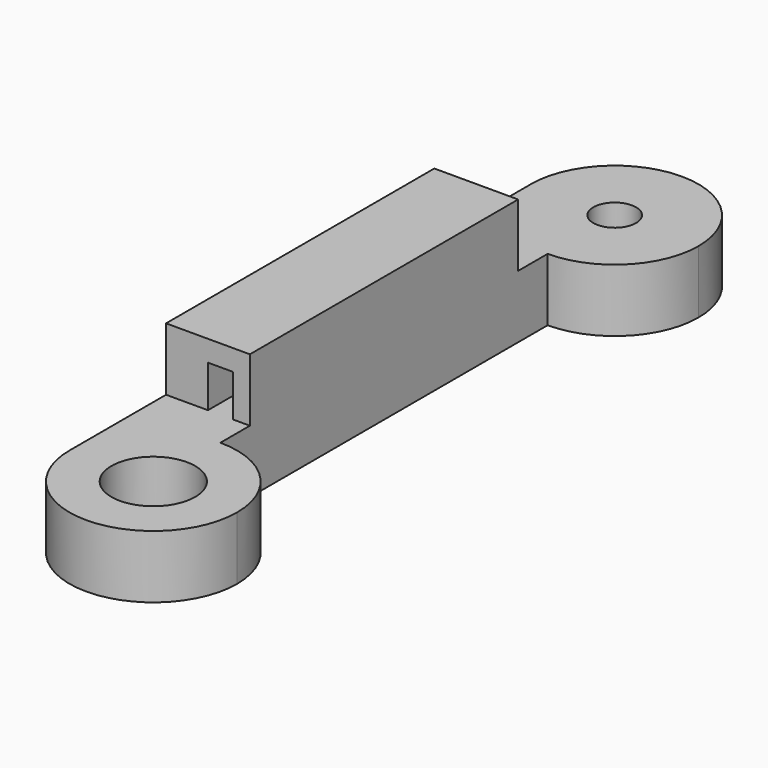
from build123d import *

# Parameters (mm, degrees)
F1_DEPTH = 9.525
F2_R     = 6.35
F2_R_2   = 3.2385
F3_DEPTH = 25.4
F5_DEPTH = 25.4


with BuildPart() as f1:
    # F0 (on Top) → F1 (new body)
    with BuildSketch(Plane.XY):
        with BuildLine():
            ThreePointArc((0, -30.988), (-8.980256, -34.707744), (-12.7, -43.688))
            ThreePointArc((-12.7, -43.688), (0, -56.388), (12.7, -43.688))
            ThreePointArc((12.7, -43.688), (8.980256, -34.707744), (0, -30.988))
        make_face()
        with BuildLine():
            ThreePointArc((0, 30.988), (-8.980256, 34.707744), (-12.7, 43.688))
            Line((-12.7, 43.688), (-12.7, -43.688))
            ThreePointArc((-12.7, -43.688), (-8.980256, -34.707744), (0, -30.988))
            Line((0, -30.988), (0, 30.988))
        make_face()
        with BuildLine():
            ThreePointArc((0, 30.988), (8.980256, 34.707744), (12.7, 43.688))
            ThreePointArc((12.7, 43.688), (0, 56.388), (-12.7, 43.688))
            ThreePointArc((-12.7, 43.688), (-8.980256, 34.707744), (0, 30.988))
        make_face()
    extrude(amount=F1_DEPTH)

    # F2 (on face) → F3 (cut)
    with BuildSketch(Plane.XY.offset(9.525)):
        with Locations((0, -43.688)):
            Circle(F2_R)
        with Locations((0, 43.688)):
            Circle(F2_R_2)
    extrude(amount=-F3_DEPTH, mode=Mode.SUBTRACT)

    # F4 (on Front) → F5 (join, symmetric)
    with BuildSketch(Plane.XZ):
        Polygon((0, 19.05), (-12.7, 19.05), (-12.7, 9.525), (-6.35, 9.525), (-6.35, 15.875), (-2.54, 15.875), (-2.54, 9.525), (0, 9.525), align=None)
    extrude(amount=F5_DEPTH, both=True)


solid = f1.part
